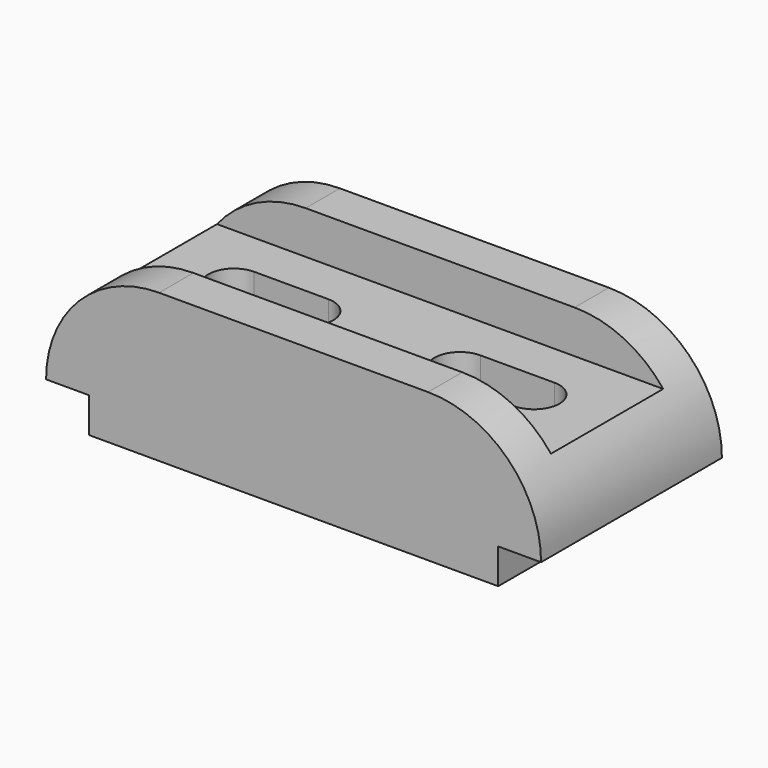
from build123d import *

# Parameters (mm, degrees)
F1_DEPTH = 29
F3_DEPTH = 38.001
F4_W     = 36
F4_H     = 11
F5_DEPTH = 127.001


with BuildPart() as f1:
    # F0 (on Front) → F1 (new body, symmetric)
    with BuildSketch(Plane.XZ):
        with BuildLine():
            Line((11, 9), (11, 0))
            Line((11, 0), (116, 0))
            Line((116, 0), (116, 9))
            Line((116, 9), (127, 9))
            ThreePointArc((127, 9), (118.506097, 29.506097), (98, 38))
            Line((98, 38), (29, 38))
            ThreePointArc((29, 38), (8.493903, 29.506097), (0, 9))
            Line((0, 9), (11, 9))
        make_face()
    extrude(amount=F1_DEPTH, both=True)

    # F2 (on face) → F3 (cut, through all)
    with BuildSketch(Plane.XY.offset(38)):
        with BuildLine():
            Line((44, 6.5), (25, 6.5))
            ThreePointArc((25, 6.5), (18.5, 0), (25, -6.5))
            Line((25, -6.5), (44, -6.5))
            ThreePointArc((44, -6.5), (50.5, 0), (44, 6.5))
        make_face()
        with BuildLine():
            Line((102, 6.5), (83, 6.5))
            ThreePointArc((83, 6.5), (76.5, 0), (83, -6.5))
            Line((83, -6.5), (102, -6.5))
            ThreePointArc((102, -6.5), (108.5, 0), (102, 6.5))
        make_face()
    extrude(amount=-F3_DEPTH, mode=Mode.SUBTRACT)

    # F4 (on Right) → F5 (cut, through all)
    with BuildSketch(Plane.YZ):
        with Locations((0, 32.5)):
            Rectangle(F4_W, F4_H)
    extrude(amount=F5_DEPTH, mode=Mode.SUBTRACT)


solid = f1.part
